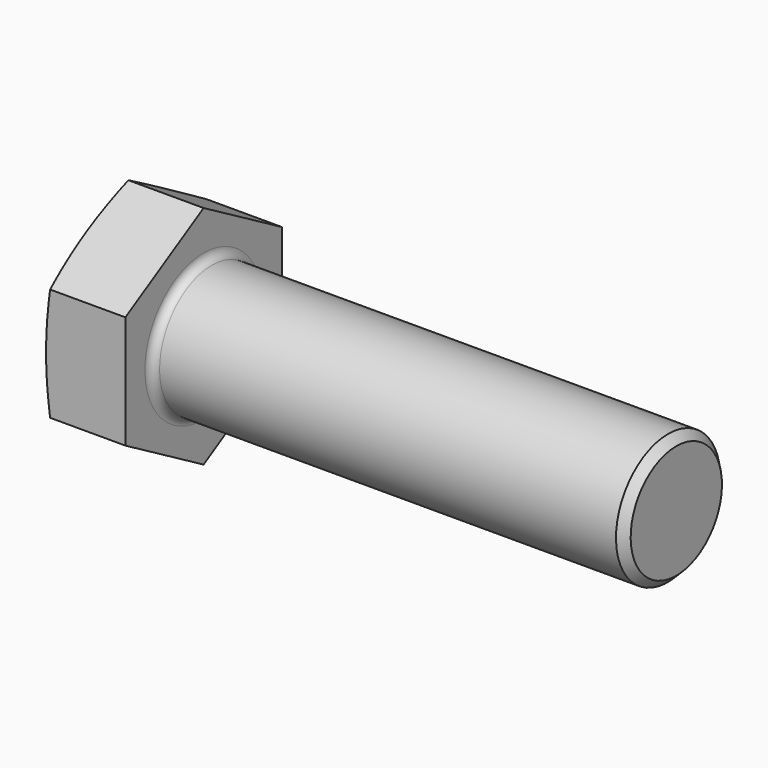
from build123d import *

# Parameters (mm, degrees)
F2_R     = 14
F3_DEPTH = 25
F4_SIZE  = 1
F5_R     = 1


with BuildPart() as f1:
    # F0 (on Front) → F1 (revolve)
    with BuildSketch(Plane.XZ):
        Polygon((0, 14), (0, 0), (68, 0), (68, 8), (10, 8), (10, 14), align=None)
    revolve(axis=Axis((34, 0, 0), (1, 0, 0)))

    # F2 (on face) → F3 (cut)
    with BuildSketch(Plane(origin=(0, 0, 0), x_dir=(0, -1, 0), z_dir=(-1, 0, 0))):
        Circle(F2_R)
        Polygon((-12, 6.928203), (0, 13.856406), (12, 6.928203), (12, -6.928203), (0, -13.856406), (-12, -6.928203), align=None, mode=Mode.SUBTRACT)
    extrude(amount=-F3_DEPTH, mode=Mode.SUBTRACT)

    # F4
    f4_edges = [f1.edges().sort_by_distance(p)[0] for p in [
        (68, 0, -8),
    ]]
    chamfer(f4_edges, length=F4_SIZE)

    # F5
    f5_edges = [f1.edges().sort_by_distance(p)[0] for p in [
        (10, 0, -8),
    ]]
    fillet(f5_edges, radius=F5_R)

    # F6 (on Front) → F7 (revolve, cut)
    with BuildSketch(Plane.XZ):
        Polygon((0, 26.713991), (0, 11), (4.210551, 26.713991), align=None)
    revolve(axis=Axis((44.15636, 0, 0), (1, 0, 0)), mode=Mode.SUBTRACT)


solid = f1.part
